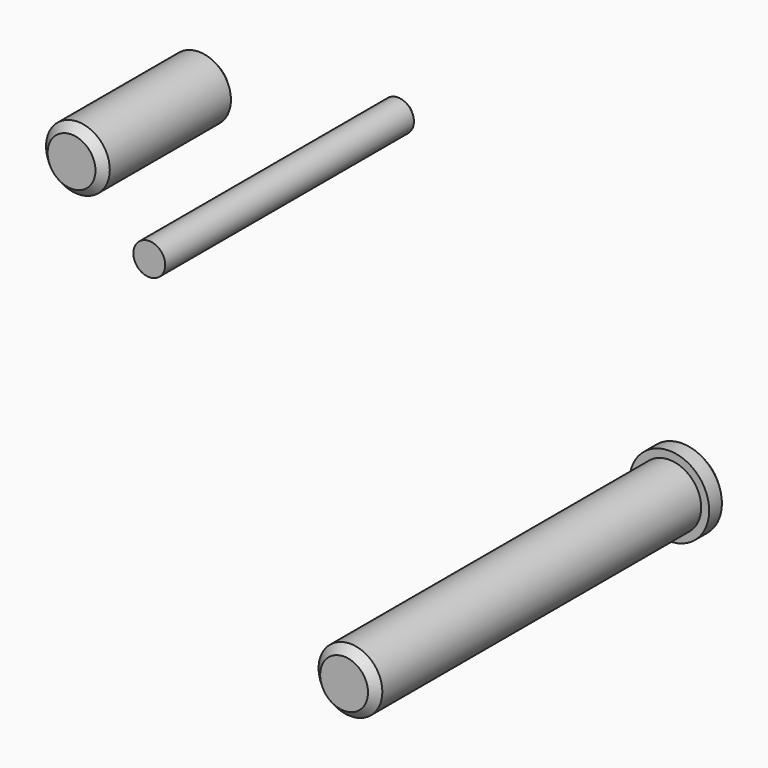
from build123d import *

# Parameters (mm, degrees)
F0_R      = 5
F1_DEPTH  = 3
F2_R      = 4
F3_DEPTH  = 51
F4_R      = 4
F5_DEPTH  = 21
F6_R      = 2
F7_DEPTH  = 40
F8_SIZE   = 1
F8_2_SIZE = 1
F8_3_SIZE = 1


with BuildPart() as f1:
    # F0 (on Front) → F1 (new body)
    with BuildSketch(Plane.XZ):
        Circle(F0_R)
    extrude(amount=F1_DEPTH)

    # F2 (on face) → F3 (join)
    with BuildSketch(Plane.XZ.offset(3)):
        Circle(F2_R)
    extrude(amount=F3_DEPTH)

    # F8
    f8_edges = [f1.edges().sort_by_distance(p)[0] for p in [
        (-5, 0, 0),
        (-4, -54, 0),
    ]]
    chamfer(f8_edges, length=F8_SIZE)


with BuildPart() as f5:
    # F4 (on Front) → F5 (new body)
    with BuildSketch(Plane.XZ):
        with Locations((-60.59441, 24.534458)):
            Circle(F4_R)
    extrude(amount=F5_DEPTH)

    # F8#2
    f8_2_edges = [f5.edges().sort_by_distance(p)[0] for p in [
        (-64.59441, -21, 24.534458),
        (-64.59441, 0, 24.534458),
    ]]
    chamfer(f8_2_edges, length=F8_2_SIZE)


with BuildPart() as f7:
    # F6 (on Front) → F7 (new body)
    with BuildSketch(Plane.XZ):
        with Locations((-35.640374, 29.607227)):
            Circle(F6_R)
    extrude(amount=F7_DEPTH)

    # F8#3
    f8_3_edges = [f7.edges().sort_by_distance(p)[0] for p in [
        (-37.640374, 0, 29.607227),
    ]]
    chamfer(f8_3_edges, length=F8_3_SIZE)


solid = Compound([f1.part, f5.part, f7.part])
